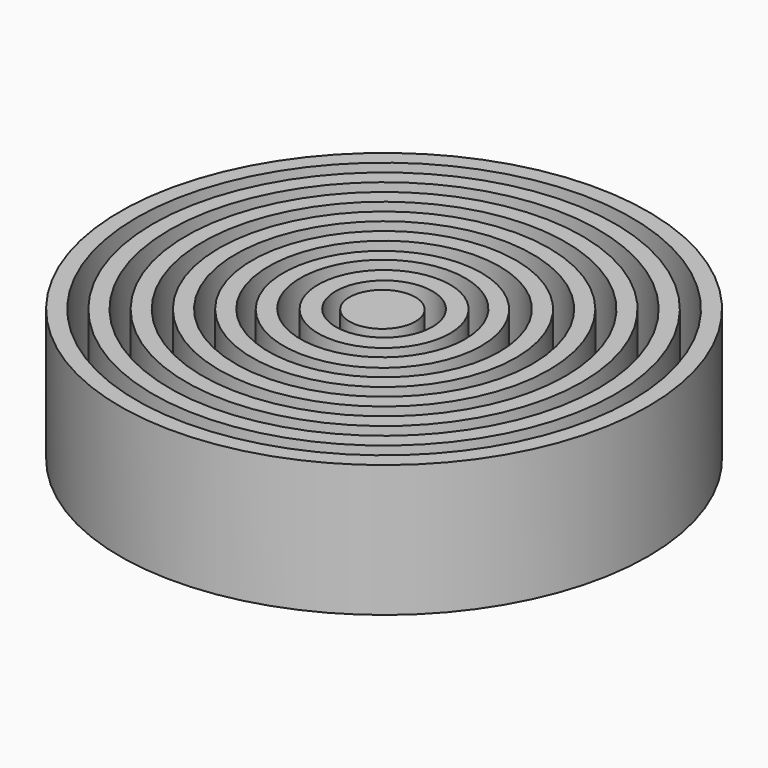
from build123d import *

# Parameters (mm, degrees)
F0_R     = 6.35
F1_DEPTH = 25.4
F0_R_2   = 12.7
F0_R_3   = 9.3036363398
F0_R_4   = 19.05
F0_R_5   = 15.875
F0_R_6   = 25.4
F0_R_7   = 22.225
F0_R_8   = 31.75
F0_R_9   = 28.575
F0_R_10  = 38.1
F0_R_11  = 34.925
F2_DEPTH = 25.4
F0_R_12  = 44.45
F0_R_13  = 41.275
F0_R_14  = 50.8
F0_R_15  = 47.625


with BuildPart() as f1:
    # F0 (on Top) → F1 (new body)
    with BuildSketch(Plane.XY):
        Circle(F0_R)
    extrude(amount=F1_DEPTH)


with BuildPart() as f1b:
    # F0 (on Top) → F1, piece 2 (new body)
    with BuildSketch(Plane.XY):
        with Locations((0.1220932784, 0.244185629)):
            Circle(F0_R_2)
        with Locations((0.1220932784, 0.244185629)):
            Circle(F0_R_3, mode=Mode.SUBTRACT)
    extrude(amount=F1_DEPTH)


with BuildPart() as f1c:
    # F0 (on Top) → F1, piece 3 (new body)
    with BuildSketch(Plane.XY):
        Circle(F0_R_4)
        with Locations((-0.1220932784, 0.244185629)):
            Circle(F0_R_5, mode=Mode.SUBTRACT)
    extrude(amount=F1_DEPTH)


with BuildPart() as f1d:
    # F0 (on Top) → F1, piece 4 (new body)
    with BuildSketch(Plane.XY):
        with Locations((0.1220932784, 0.244185629)):
            Circle(F0_R_6)
        with Locations((0.1220932784, 0.244185629)):
            Circle(F0_R_7, mode=Mode.SUBTRACT)
    extrude(amount=F1_DEPTH)


with BuildPart() as f1e:
    # F0 (on Top) → F1, piece 5 (new body)
    with BuildSketch(Plane.XY):
        with Locations((0.1220932784, 0.244185629)):
            Circle(F0_R_8)
        with Locations((0.1220932784, 0.244185629)):
            Circle(F0_R_9, mode=Mode.SUBTRACT)
    extrude(amount=F1_DEPTH)


with BuildPart() as f2:
    # F0 (on Top) → F2 (new body)
    with BuildSketch(Plane.XY):
        with Locations((0.1220932784, 0.244185629)):
            Circle(F0_R_10)
        with Locations((0.1220932784, 0.244185629)):
            Circle(F0_R_11, mode=Mode.SUBTRACT)
    extrude(amount=F2_DEPTH)


with BuildPart() as f2b:
    # F0 (on Top) → F2, piece 2 (new body)
    with BuildSketch(Plane.XY):
        with Locations((0.1220932784, 0.244185629)):
            Circle(F0_R_12)
        with Locations((0.1220932784, 0.244185629)):
            Circle(F0_R_13, mode=Mode.SUBTRACT)
    extrude(amount=F2_DEPTH)


with BuildPart() as f2c:
    # F0 (on Top) → F2, piece 3 (new body)
    with BuildSketch(Plane.XY):
        with Locations((0.1220932784, 0.244185629)):
            Circle(F0_R_14)
        with Locations((0.1220932784, 0.244185629)):
            Circle(F0_R_15, mode=Mode.SUBTRACT)
    extrude(amount=F2_DEPTH)


solid = Compound([f1.part, f1b.part, f1c.part, f1d.part, f1e.part, f2.part, f2b.part, f2c.part])
